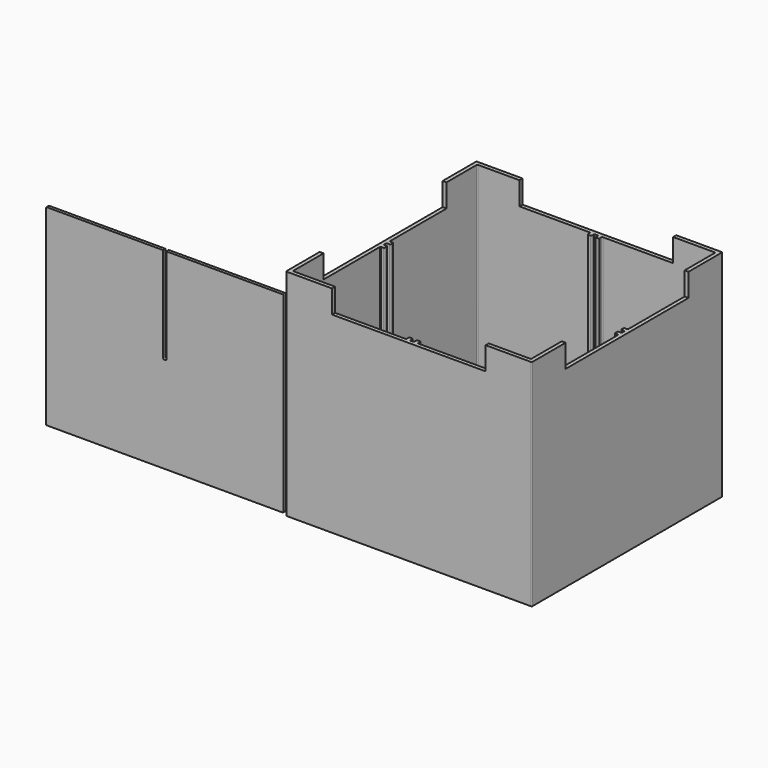
from build123d import *

# Parameters (mm, degrees)
F0_W      = 155
F0_H      = 2.5
F1_DEPTH  = 137.5
F2_W      = 160
F2_H      = 155
F2_W_2    = 155
F2_H_2    = 150
F3_DEPTH  = 2.5
F4_R      = 0.5
F5_W      = 2.5
F5_H      = 2.5
F6_DEPTH  = 137.5
F7_R      = 0.5
F8_W      = 154.5
F8_H      = 125
F9_DEPTH  = 2
F10_R     = 0.5
F12_ANGLE = 90
F15_W     = 2
F15_H     = 62.5
F16_DEPTH = 157.001
F17_R     = 0.5
F18_W     = 100
F18_H     = 15
F19_DEPTH = 155.001
F20_W     = 100
F20_H     = 15
F21_DEPTH = 314.501


with BuildPart() as f1:
    # F0 (on Top) → F1 (new body)
    with BuildSketch(Plane.XY):
        Polygon((0, 155), (0, 0), (2.5, 0), (2.5, 2.5), (2.5, 152.5), (157.5, 152.5), (157.5, 2.5), (157.5, 0), (160, 0), (160, 155), align=None)
        with Locations((80, 1.25)):
            Rectangle(F0_W, F0_H)
    extrude(amount=F1_DEPTH)

    # F2 (on face) → F3 (join)
    with BuildSketch(Plane(origin=(0, 0, 0), x_dir=(1, 0, 0), z_dir=(0, 0, -1))):
        with Locations((80, -77.5)):
            Rectangle(F2_W, F2_H)
        with Locations((80, -77.5)):
            Rectangle(F2_W_2, F2_H_2, mode=Mode.SUBTRACT)
        with Locations((80, -77.5)):
            Rectangle(F2_W_2, F2_H_2)
    extrude(amount=F3_DEPTH)

    # F4
    f4_edges = [f1.edges().sort_by_distance(p)[0] for p in [
        (0, 155, 67.5),
        (160, 155, 67.5),
        (160, 0, 67.5),
        (0, 0, 67.5),
        (2.5, 152.5, 68.75),
        (157.5, 152.5, 68.75),
        (157.5, 2.5, 68.75),
        (2.5, 2.5, 68.75),
    ]]
    fillet(f4_edges, radius=F4_R)

    # F5 (on face) → F6 (join, through all)
    with BuildSketch(Plane.XY.offset(137.5)):
        with Locations((3.75, 80)):
            Rectangle(F5_W, F5_H)
        with Locations((3.75, 75)):
            Rectangle(F5_W, F5_H)
        with Locations((77.5, 3.75)):
            Rectangle(F5_W, F5_H)
        with Locations((82.5, 3.75)):
            Rectangle(F5_W, F5_H)
        with Locations((156.25, 80)):
            Rectangle(F5_W, F5_H)
        with Locations((156.25, 75)):
            Rectangle(F5_W, F5_H)
        with Locations((82.5, 151.25)):
            Rectangle(F5_W, F5_H)
        with Locations((77.5, 151.25)):
            Rectangle(F5_W, F5_H)
    extrude(amount=-F6_DEPTH)

    # F7
    f7_edges = [f1.edges().sort_by_distance(p)[0] for p in [
        (5, 81.25, 68.75),
        (5, 78.75, 68.75),
        (2.5, 78.75, 68.75),
        (2.5, 76.25, 68.75),
        (5, 76.25, 68.75),
        (5, 73.75, 68.75),
        (2.5, 73.75, 68.75),
        (2.5, 81.25, 68.75),
        (76.25, 150, 68.75),
        (78.75, 150, 68.75),
        (78.75, 152.5, 68.75),
        (81.25, 152.5, 68.75),
        (81.25, 150, 68.75),
        (83.75, 150, 68.75),
        (83.75, 152.5, 68.75),
        (76.25, 152.5, 68.75),
        (157.5, 73.75, 68.75),
        (155, 73.75, 68.75),
        (155, 76.25, 68.75),
        (157.5, 81.25, 68.75),
        (155, 81.25, 68.75),
        (155, 78.75, 68.75),
        (157.5, 78.75, 68.75),
        (157.5, 76.25, 68.75),
        (76.25, 2.5, 68.75),
        (76.25, 5, 68.75),
        (78.75, 5, 68.75),
        (78.75, 2.5, 68.75),
        (81.25, 5, 68.75),
        (81.25, 2.5, 68.75),
        (83.75, 2.5, 68.75),
        (83.75, 5, 68.75),
    ]]
    fillet(f7_edges, radius=F7_R)

    # F18 (on face) → F19 (cut, through all)
    with BuildSketch(Plane.XZ):
        with Locations((80, 130)):
            Rectangle(F18_W, F18_H)
    extrude(amount=-F19_DEPTH, mode=Mode.SUBTRACT)

    # F20 (on face) → F21 (cut, through all)
    with BuildSketch(Plane.YZ.offset(160)):
        with Locations((77.5, 130)):
            Rectangle(F20_W, F20_H)
    extrude(amount=-F21_DEPTH, mode=Mode.SUBTRACT)


with BuildPart() as f9:
    # F8 (on Front) → F9 (new body)
    with BuildSketch(Plane.XZ):
        with Locations((-77.25, 62.5)):
            Rectangle(F8_W, F8_H)
    extrude(amount=F9_DEPTH)

    # F10
    f10_edges = [f9.edges().sort_by_distance(p)[0] for p in [
        (0, -1, 0),
        (0, -1, 125),
        (-154.5, -1, 125),
        (-154.5, -1, 0),
    ]]
    fillet(f10_edges, radius=F10_R)


with BuildPart() as f11_1:
    # F11: copy of F9
    add(f9.part)


with BuildPart() as f12_1:
    # F12: copy of F9
    add(f9.part.rotate(Axis((0, 154.5, 67.5), (0, 0, 1)), F12_ANGLE))


with BuildPart() as f9_1:
    add(f9.part)

    # F15 (on face) → F16 (cut, through all)
    with BuildSketch(Plane.XZ.offset(2)):
        with Locations((-77.25, 93.75)):
            Rectangle(F15_W, F15_H)
    extrude(amount=-F16_DEPTH, mode=Mode.SUBTRACT)

    # F17
    f17_edges = [f9_1.edges().sort_by_distance(p)[0] for p in [
        (-78.25, -1, 62.5),
        (-76.25, -1, 62.5),
    ]]
    fillet(f17_edges, radius=F17_R)


solid = Compound([f1.part, f9_1.part])
